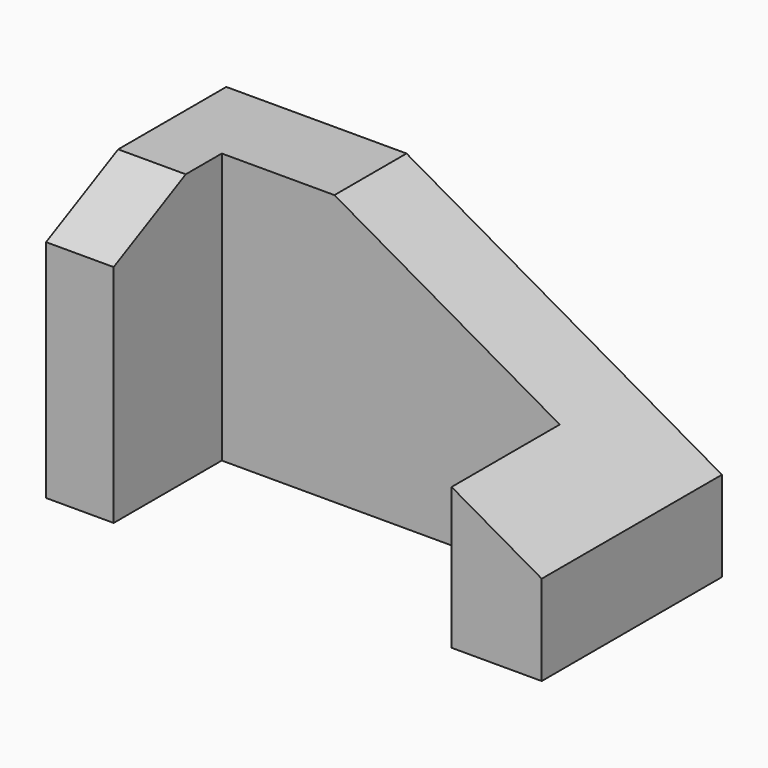
from build123d import *

# Parameters (mm, degrees)
F1_W     = 110
F1_H     = 50
F2_DEPTH = 60
F3_W     = 40
F3_H     = 30
F3_W_2   = 35
F4_DEPTH = 60.001
F6_DEPTH = 15
F8_DEPTH = 50.001


with BuildPart() as f2:
    # F1 (on Top) → F2 (new body)
    with BuildSketch(Plane.XY):
        Rectangle(F1_W, F1_H)
    extrude(amount=F2_DEPTH)

    # F3 (on face) → F4 (cut, through all)
    with BuildSketch(Plane.XY.offset(60)):
        with Locations((-20, -10)):
            Rectangle(F3_W, F3_H)
        with Locations((17.5, -10)):
            Rectangle(F3_W_2, F3_H)
    extrude(amount=-F4_DEPTH, mode=Mode.SUBTRACT)

    # F5 (on face) → F6 (cut, through all)
    with BuildSketch(Plane(origin=(-55, 0, 0), x_dir=(0, -1, 0), z_dir=(-1, 0, 0))):
        Polygon((25, 50), (25, 60), (5, 60), align=None)
    extrude(amount=-F6_DEPTH, mode=Mode.SUBTRACT)

    # F7 (on face) → F8 (cut, through all)
    with BuildSketch(Plane(origin=(0, 25, 0), x_dir=(-1, 0, 0), z_dir=(0, 1, 0))):
        Polygon((15, 60), (-55, 60), (-55, 20), align=None)
    extrude(amount=-F8_DEPTH, mode=Mode.SUBTRACT)


solid = f2.part
